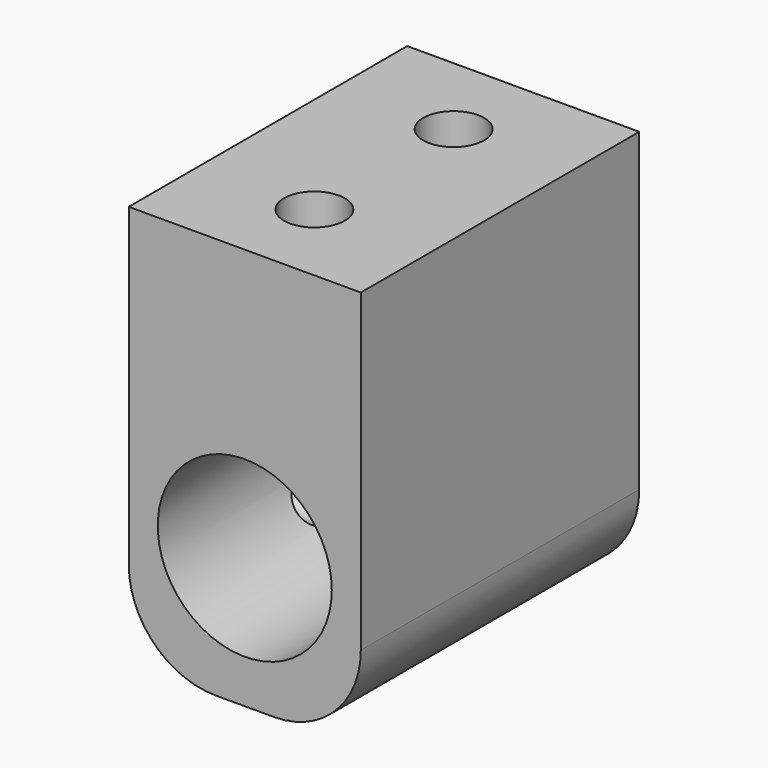
from build123d import *

# Parameters (mm, degrees)
F0_R     = 6
F1_DEPTH = 24
F3_D     = 4.2
F3_DEPTH = 14.4
F3_TIP   = 1.2618073
F5_D     = 2.5
F5_DEPTH = 5
F5_START = 0.1316528
F5_TIP   = 0.7510757738


with BuildPart() as f1:
    # F0 (on Front) → F1 (new body)
    with BuildSketch(Plane.XZ):
        with BuildLine():
            Line((8, 12.7148411355), (-8, 12.7148411355))
            Line((-8, 12.7148411355), (-8, -9))
            ThreePointArc((-8, -9), (-6.2426406871, -13.2426406871), (-2, -15))
            Line((-2, -15), (2, -15))
            ThreePointArc((2, -15), (6.2426406871, -13.2426406871), (8, -9))
            Line((8, -9), (8, 12.7148411355))
        make_face()
        with Locations((0, -6)):
            Circle(F0_R, mode=Mode.SUBTRACT)
    extrude(amount=-F1_DEPTH)

    # F3
    with Locations(Plane.XY.offset(12.7148411355)):
        with Locations((0, 18), (0, 6)):
            Hole(F3_D / 2, depth=F3_DEPTH)
            with Locations((0, 0, -(F3_DEPTH + F3_TIP / 2))):  # 118° drill point
                Cone(0, F3_D / 2, F3_TIP, mode=Mode.SUBTRACT)

    # F5
    # its depths count from where the whole tool has entered the part; down to there all is cleared
    with Locations(Plane(origin=(-8, 0, 0), x_dir=(0, -1, 0), z_dir=(-1, 0, 0)).offset(-F5_START)):
        with Locations((-12, -9)):
            Hole(F5_D / 2, depth=F5_DEPTH)
            with Locations((0, 0, -(F5_DEPTH + F5_TIP / 2))):  # 118° drill point
                Cone(0, F5_D / 2, F5_TIP, mode=Mode.SUBTRACT)


solid = f1.part
